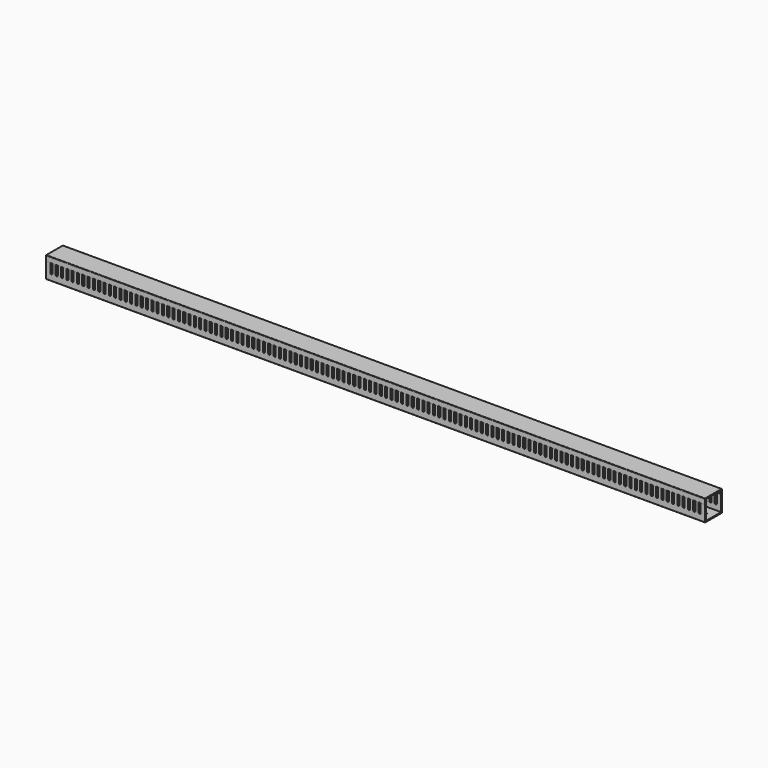
from build123d import *

# Parameters (mm, degrees)
F1_DEPTH = 620
F3_DEPTH = 40.001
F5_DEPTH = 25
F7_DEPTH = 620
F8_R     = 1
F8_2_R   = 1


with BuildPart() as f1:
    # F0 (on Right) → F1 (new body, symmetric)
    with BuildSketch(Plane.YZ):
        Polygon((-20, 38), (-20, 0), (20, 0), (20, 38), (18, 38), (18, 2), (-18, 2), (-18, 38), align=None)
    extrude(amount=F1_DEPTH, both=True)

    # F2 (on face) → F3 (cut, through all)
    with BuildSketch(Plane.XZ.offset(20)):
        with BuildLine():
            Line((2, 38), (-2, 38))
            Line((-2, 38), (-2, 13.4))
            ThreePointArc((-2, 13.4), (0, 11.4), (2, 13.4))
            Line((2, 13.4), (2, 38))
        make_face()
        with BuildLine():
            Line((12, 38), (8, 38))
            Line((8, 38), (8, 13.4))
            ThreePointArc((8, 13.4), (10, 11.4), (12, 13.4))
            Line((12, 13.4), (12, 38))
        make_face()
        with BuildLine():
            Line((22, 38), (18, 38))
            Line((18, 38), (18, 13.4))
            ThreePointArc((18, 13.4), (20, 11.4), (22, 13.4))
            Line((22, 13.4), (22, 38))
        make_face()
        with BuildLine():
            Line((32, 38), (28, 38))
            Line((28, 38), (28, 13.4))
            ThreePointArc((28, 13.4), (30, 11.4), (32, 13.4))
            Line((32, 13.4), (32, 38))
        make_face()
        with BuildLine():
            Line((42, 38), (38, 38))
            Line((38, 38), (38, 13.4))
            ThreePointArc((38, 13.4), (40, 11.4), (42, 13.4))
            Line((42, 13.4), (42, 38))
        make_face()
        with BuildLine():
            Line((52, 38), (48, 38))
            Line((48, 38), (48, 13.4))
            ThreePointArc((48, 13.4), (50, 11.4), (52, 13.4))
            Line((52, 13.4), (52, 38))
        make_face()
        with BuildLine():
            Line((62, 38), (58, 38))
            Line((58, 38), (58, 13.4))
            ThreePointArc((58, 13.4), (60, 11.4), (62, 13.4))
            Line((62, 13.4), (62, 38))
        make_face()
        with BuildLine():
            Line((72, 38), (68, 38))
            Line((68, 38), (68, 13.4))
            ThreePointArc((68, 13.4), (70, 11.4), (72, 13.4))
            Line((72, 13.4), (72, 38))
        make_face()
        with BuildLine():
            Line((82, 38), (78, 38))
            Line((78, 38), (78, 13.4))
            ThreePointArc((78, 13.4), (80, 11.4), (82, 13.4))
            Line((82, 13.4), (82, 38))
        make_face()
        with BuildLine():
            Line((92, 38), (88, 38))
            Line((88, 38), (88, 13.4))
            ThreePointArc((88, 13.4), (90, 11.4), (92, 13.4))
            Line((92, 13.4), (92, 38))
        make_face()
        with BuildLine():
            Line((102, 38), (98, 38))
            Line((98, 38), (98, 13.4))
            ThreePointArc((98, 13.4), (100, 11.4), (102, 13.4))
            Line((102, 13.4), (102, 38))
        make_face()
        with BuildLine():
            Line((112, 38), (108, 38))
            Line((108, 38), (108, 13.4))
            ThreePointArc((108, 13.4), (110, 11.4), (112, 13.4))
            Line((112, 13.4), (112, 38))
        make_face()
        with BuildLine():
            Line((122, 38), (118, 38))
            Line((118, 38), (118, 13.4))
            ThreePointArc((118, 13.4), (120, 11.4), (122, 13.4))
            Line((122, 13.4), (122, 38))
        make_face()
        with BuildLine():
            Line((132, 38), (128, 38))
            Line((128, 38), (128, 13.4))
            ThreePointArc((128, 13.4), (130, 11.4), (132, 13.4))
            Line((132, 13.4), (132, 38))
        make_face()
        with BuildLine():
            Line((142, 38), (138, 38))
            Line((138, 38), (138, 13.4))
            ThreePointArc((138, 13.4), (140, 11.4), (142, 13.4))
            Line((142, 13.4), (142, 38))
        make_face()
        with BuildLine():
            Line((152, 38), (148, 38))
            Line((148, 38), (148, 13.4))
            ThreePointArc((148, 13.4), (150, 11.4), (152, 13.4))
            Line((152, 13.4), (152, 38))
        make_face()
        with BuildLine():
            Line((162, 38), (158, 38))
            Line((158, 38), (158, 13.4))
            ThreePointArc((158, 13.4), (160, 11.4), (162, 13.4))
            Line((162, 13.4), (162, 38))
        make_face()
        with BuildLine():
            Line((172, 38), (168, 38))
            Line((168, 38), (168, 13.4))
            ThreePointArc((168, 13.4), (170, 11.4), (172, 13.4))
            Line((172, 13.4), (172, 38))
        make_face()
        with BuildLine():
            Line((182, 38), (178, 38))
            Line((178, 38), (178, 13.4))
            ThreePointArc((178, 13.4), (180, 11.4), (182, 13.4))
            Line((182, 13.4), (182, 38))
        make_face()
        with BuildLine():
            Line((192, 38), (188, 38))
            Line((188, 38), (188, 13.4))
            ThreePointArc((188, 13.4), (190, 11.4), (192, 13.4))
            Line((192, 13.4), (192, 38))
        make_face()
        with BuildLine():
            Line((202, 38), (198, 38))
            Line((198, 38), (198, 13.4))
            ThreePointArc((198, 13.4), (200, 11.4), (202, 13.4))
            Line((202, 13.4), (202, 38))
        make_face()
        with BuildLine():
            Line((212, 38), (208, 38))
            Line((208, 38), (208, 13.4))
            ThreePointArc((208, 13.4), (210, 11.4), (212, 13.4))
            Line((212, 13.4), (212, 38))
        make_face()
        with BuildLine():
            Line((222, 38), (218, 38))
            Line((218, 38), (218, 13.4))
            ThreePointArc((218, 13.4), (220, 11.4), (222, 13.4))
            Line((222, 13.4), (222, 38))
        make_face()
        with BuildLine():
            Line((232, 38), (228, 38))
            Line((228, 38), (228, 13.4))
            ThreePointArc((228, 13.4), (230, 11.4), (232, 13.4))
            Line((232, 13.4), (232, 38))
        make_face()
        with BuildLine():
            Line((242, 38), (238, 38))
            Line((238, 38), (238, 13.4))
            ThreePointArc((238, 13.4), (240, 11.4), (242, 13.4))
            Line((242, 13.4), (242, 38))
        make_face()
        with BuildLine():
            Line((252, 38), (248, 38))
            Line((248, 38), (248, 13.4))
            ThreePointArc((248, 13.4), (250, 11.4), (252, 13.4))
            Line((252, 13.4), (252, 38))
        make_face()
        with BuildLine():
            Line((262, 38), (258, 38))
            Line((258, 38), (258, 13.4))
            ThreePointArc((258, 13.4), (260, 11.4), (262, 13.4))
            Line((262, 13.4), (262, 38))
        make_face()
        with BuildLine():
            Line((272, 38), (268, 38))
            Line((268, 38), (268, 13.4))
            ThreePointArc((268, 13.4), (270, 11.4), (272, 13.4))
            Line((272, 13.4), (272, 38))
        make_face()
        with BuildLine():
            Line((282, 38), (278, 38))
            Line((278, 38), (278, 13.4))
            ThreePointArc((278, 13.4), (280, 11.4), (282, 13.4))
            Line((282, 13.4), (282, 38))
        make_face()
        with BuildLine():
            Line((292, 38), (288, 38))
            Line((288, 38), (288, 13.4))
            ThreePointArc((288, 13.4), (290, 11.4), (292, 13.4))
            Line((292, 13.4), (292, 38))
        make_face()
        with BuildLine():
            Line((302, 38), (298, 38))
            Line((298, 38), (298, 13.4))
            ThreePointArc((298, 13.4), (300, 11.4), (302, 13.4))
            Line((302, 13.4), (302, 38))
        make_face()
        with BuildLine():
            Line((312, 38), (308, 38))
            Line((308, 38), (308, 13.4))
            ThreePointArc((308, 13.4), (310, 11.4), (312, 13.4))
            Line((312, 13.4), (312, 38))
        make_face()
        with BuildLine():
            Line((322, 38), (318, 38))
            Line((318, 38), (318, 13.4))
            ThreePointArc((318, 13.4), (320, 11.4), (322, 13.4))
            Line((322, 13.4), (322, 38))
        make_face()
        with BuildLine():
            Line((332, 38), (328, 38))
            Line((328, 38), (328, 13.4))
            ThreePointArc((328, 13.4), (330, 11.4), (332, 13.4))
            Line((332, 13.4), (332, 38))
        make_face()
        with BuildLine():
            Line((342, 38), (338, 38))
            Line((338, 38), (338, 13.4))
            ThreePointArc((338, 13.4), (340, 11.4), (342, 13.4))
            Line((342, 13.4), (342, 38))
        make_face()
        with BuildLine():
            Line((352, 38), (348, 38))
            Line((348, 38), (348, 13.4))
            ThreePointArc((348, 13.4), (350, 11.4), (352, 13.4))
            Line((352, 13.4), (352, 38))
        make_face()
        with BuildLine():
            Line((362, 38), (358, 38))
            Line((358, 38), (358, 13.4))
            ThreePointArc((358, 13.4), (360, 11.4), (362, 13.4))
            Line((362, 13.4), (362, 38))
        make_face()
        with BuildLine():
            Line((372, 38), (368, 38))
            Line((368, 38), (368, 13.4))
            ThreePointArc((368, 13.4), (370, 11.4), (372, 13.4))
            Line((372, 13.4), (372, 38))
        make_face()
        with BuildLine():
            Line((382, 38), (378, 38))
            Line((378, 38), (378, 13.4))
            ThreePointArc((378, 13.4), (380, 11.4), (382, 13.4))
            Line((382, 13.4), (382, 38))
        make_face()
        with BuildLine():
            Line((392, 38), (388, 38))
            Line((388, 38), (388, 13.4))
            ThreePointArc((388, 13.4), (390, 11.4), (392, 13.4))
            Line((392, 13.4), (392, 38))
        make_face()
        with BuildLine():
            Line((402, 38), (398, 38))
            Line((398, 38), (398, 13.4))
            ThreePointArc((398, 13.4), (400, 11.4), (402, 13.4))
            Line((402, 13.4), (402, 38))
        make_face()
        with BuildLine():
            Line((412, 38), (408, 38))
            Line((408, 38), (408, 13.4))
            ThreePointArc((408, 13.4), (410, 11.4), (412, 13.4))
            Line((412, 13.4), (412, 38))
        make_face()
        with BuildLine():
            Line((422, 38), (418, 38))
            Line((418, 38), (418, 13.4))
            ThreePointArc((418, 13.4), (420, 11.4), (422, 13.4))
            Line((422, 13.4), (422, 38))
        make_face()
        with BuildLine():
            Line((432, 38), (428, 38))
            Line((428, 38), (428, 13.4))
            ThreePointArc((428, 13.4), (430, 11.4), (432, 13.4))
            Line((432, 13.4), (432, 38))
        make_face()
        with BuildLine():
            Line((442, 38), (438, 38))
            Line((438, 38), (438, 13.4))
            ThreePointArc((438, 13.4), (440, 11.4), (442, 13.4))
            Line((442, 13.4), (442, 38))
        make_face()
        with BuildLine():
            Line((452, 38), (448, 38))
            Line((448, 38), (448, 13.4))
            ThreePointArc((448, 13.4), (450, 11.4), (452, 13.4))
            Line((452, 13.4), (452, 38))
        make_face()
        with BuildLine():
            Line((462, 38), (458, 38))
            Line((458, 38), (458, 13.4))
            ThreePointArc((458, 13.4), (460, 11.4), (462, 13.4))
            Line((462, 13.4), (462, 38))
        make_face()
        with BuildLine():
            Line((472, 38), (468, 38))
            Line((468, 38), (468, 13.4))
            ThreePointArc((468, 13.4), (470, 11.4), (472, 13.4))
            Line((472, 13.4), (472, 38))
        make_face()
        with BuildLine():
            Line((482, 38), (478, 38))
            Line((478, 38), (478, 13.4))
            ThreePointArc((478, 13.4), (480, 11.4), (482, 13.4))
            Line((482, 13.4), (482, 38))
        make_face()
        with BuildLine():
            Line((492, 38), (488, 38))
            Line((488, 38), (488, 13.4))
            ThreePointArc((488, 13.4), (490, 11.4), (492, 13.4))
            Line((492, 13.4), (492, 38))
        make_face()
        with BuildLine():
            Line((-8, 38), (-12, 38))
            Line((-12, 38), (-12, 13.4))
            ThreePointArc((-12, 13.4), (-10, 11.4), (-8, 13.4))
            Line((-8, 13.4), (-8, 38))
        make_face()
        with BuildLine():
            Line((-18, 38), (-22, 38))
            Line((-22, 38), (-22, 13.4))
            ThreePointArc((-22, 13.4), (-20, 11.4), (-18, 13.4))
            Line((-18, 13.4), (-18, 38))
        make_face()
        with BuildLine():
            Line((-28, 38), (-32, 38))
            Line((-32, 38), (-32, 13.4))
            ThreePointArc((-32, 13.4), (-30, 11.4), (-28, 13.4))
            Line((-28, 13.4), (-28, 38))
        make_face()
        with BuildLine():
            Line((-38, 38), (-42, 38))
            Line((-42, 38), (-42, 13.4))
            ThreePointArc((-42, 13.4), (-40, 11.4), (-38, 13.4))
            Line((-38, 13.4), (-38, 38))
        make_face()
        with BuildLine():
            Line((-48, 38), (-52, 38))
            Line((-52, 38), (-52, 13.4))
            ThreePointArc((-52, 13.4), (-50, 11.4), (-48, 13.4))
            Line((-48, 13.4), (-48, 38))
        make_face()
        with BuildLine():
            Line((-58, 38), (-62, 38))
            Line((-62, 38), (-62, 13.4))
            ThreePointArc((-62, 13.4), (-60, 11.4), (-58, 13.4))
            Line((-58, 13.4), (-58, 38))
        make_face()
        with BuildLine():
            Line((-68, 38), (-72, 38))
            Line((-72, 38), (-72, 13.4))
            ThreePointArc((-72, 13.4), (-70, 11.4), (-68, 13.4))
            Line((-68, 13.4), (-68, 38))
        make_face()
        with BuildLine():
            Line((-78, 38), (-82, 38))
            Line((-82, 38), (-82, 13.4))
            ThreePointArc((-82, 13.4), (-80, 11.4), (-78, 13.4))
            Line((-78, 13.4), (-78, 38))
        make_face()
        with BuildLine():
            Line((-88, 38), (-92, 38))
            Line((-92, 38), (-92, 13.4))
            ThreePointArc((-92, 13.4), (-90, 11.4), (-88, 13.4))
            Line((-88, 13.4), (-88, 38))
        make_face()
        with BuildLine():
            Line((-98, 38), (-102, 38))
            Line((-102, 38), (-102, 13.4))
            ThreePointArc((-102, 13.4), (-100, 11.4), (-98, 13.4))
            Line((-98, 13.4), (-98, 38))
        make_face()
        with BuildLine():
            Line((-108, 38), (-112, 38))
            Line((-112, 38), (-112, 13.4))
            ThreePointArc((-112, 13.4), (-110, 11.4), (-108, 13.4))
            Line((-108, 13.4), (-108, 38))
        make_face()
        with BuildLine():
            Line((-118, 38), (-122, 38))
            Line((-122, 38), (-122, 13.4))
            ThreePointArc((-122, 13.4), (-120, 11.4), (-118, 13.4))
            Line((-118, 13.4), (-118, 38))
        make_face()
        with BuildLine():
            Line((-128, 38), (-132, 38))
            Line((-132, 38), (-132, 13.4))
            ThreePointArc((-132, 13.4), (-130, 11.4), (-128, 13.4))
            Line((-128, 13.4), (-128, 38))
        make_face()
        with BuildLine():
            Line((-138, 38), (-142, 38))
            Line((-142, 38), (-142, 13.4))
            ThreePointArc((-142, 13.4), (-140, 11.4), (-138, 13.4))
            Line((-138, 13.4), (-138, 38))
        make_face()
        with BuildLine():
            Line((-148, 38), (-152, 38))
            Line((-152, 38), (-152, 13.4))
            ThreePointArc((-152, 13.4), (-150, 11.4), (-148, 13.4))
            Line((-148, 13.4), (-148, 38))
        make_face()
        with BuildLine():
            Line((-158, 38), (-162, 38))
            Line((-162, 38), (-162, 13.4))
            ThreePointArc((-162, 13.4), (-160, 11.4), (-158, 13.4))
            Line((-158, 13.4), (-158, 38))
        make_face()
        with BuildLine():
            Line((-168, 38), (-172, 38))
            Line((-172, 38), (-172, 13.4))
            ThreePointArc((-172, 13.4), (-170, 11.4), (-168, 13.4))
            Line((-168, 13.4), (-168, 38))
        make_face()
        with BuildLine():
            Line((-178, 38), (-182, 38))
            Line((-182, 38), (-182, 13.4))
            ThreePointArc((-182, 13.4), (-180, 11.4), (-178, 13.4))
            Line((-178, 13.4), (-178, 38))
        make_face()
        with BuildLine():
            Line((-188, 38), (-192, 38))
            Line((-192, 38), (-192, 13.4))
            ThreePointArc((-192, 13.4), (-190, 11.4), (-188, 13.4))
            Line((-188, 13.4), (-188, 38))
        make_face()
        with BuildLine():
            Line((-198, 38), (-202, 38))
            Line((-202, 38), (-202, 13.4))
            ThreePointArc((-202, 13.4), (-200, 11.4), (-198, 13.4))
            Line((-198, 13.4), (-198, 38))
        make_face()
        with BuildLine():
            Line((-208, 38), (-212, 38))
            Line((-212, 38), (-212, 13.4))
            ThreePointArc((-212, 13.4), (-210, 11.4), (-208, 13.4))
            Line((-208, 13.4), (-208, 38))
        make_face()
        with BuildLine():
            Line((-218, 38), (-222, 38))
            Line((-222, 38), (-222, 13.4))
            ThreePointArc((-222, 13.4), (-220, 11.4), (-218, 13.4))
            Line((-218, 13.4), (-218, 38))
        make_face()
        with BuildLine():
            Line((-228, 38), (-232, 38))
            Line((-232, 38), (-232, 13.4))
            ThreePointArc((-232, 13.4), (-230, 11.4), (-228, 13.4))
            Line((-228, 13.4), (-228, 38))
        make_face()
        with BuildLine():
            Line((-238, 38), (-242, 38))
            Line((-242, 38), (-242, 13.4))
            ThreePointArc((-242, 13.4), (-240, 11.4), (-238, 13.4))
            Line((-238, 13.4), (-238, 38))
        make_face()
        with BuildLine():
            Line((-248, 38), (-252, 38))
            Line((-252, 38), (-252, 13.4))
            ThreePointArc((-252, 13.4), (-250, 11.4), (-248, 13.4))
            Line((-248, 13.4), (-248, 38))
        make_face()
        with BuildLine():
            Line((-258, 38), (-262, 38))
            Line((-262, 38), (-262, 13.4))
            ThreePointArc((-262, 13.4), (-260, 11.4), (-258, 13.4))
            Line((-258, 13.4), (-258, 38))
        make_face()
        with BuildLine():
            Line((-268, 38), (-272, 38))
            Line((-272, 38), (-272, 13.4))
            ThreePointArc((-272, 13.4), (-270, 11.4), (-268, 13.4))
            Line((-268, 13.4), (-268, 38))
        make_face()
        with BuildLine():
            Line((-278, 38), (-282, 38))
            Line((-282, 38), (-282, 13.4))
            ThreePointArc((-282, 13.4), (-280, 11.4), (-278, 13.4))
            Line((-278, 13.4), (-278, 38))
        make_face()
        with BuildLine():
            Line((-288, 38), (-292, 38))
            Line((-292, 38), (-292, 13.4))
            ThreePointArc((-292, 13.4), (-290, 11.4), (-288, 13.4))
            Line((-288, 13.4), (-288, 38))
        make_face()
        with BuildLine():
            Line((-298, 38), (-302, 38))
            Line((-302, 38), (-302, 13.4))
            ThreePointArc((-302, 13.4), (-300, 11.4), (-298, 13.4))
            Line((-298, 13.4), (-298, 38))
        make_face()
        with BuildLine():
            Line((-308, 38), (-312, 38))
            Line((-312, 38), (-312, 13.4))
            ThreePointArc((-312, 13.4), (-310, 11.4), (-308, 13.4))
            Line((-308, 13.4), (-308, 38))
        make_face()
        with BuildLine():
            Line((-318, 38), (-322, 38))
            Line((-322, 38), (-322, 13.4))
            ThreePointArc((-322, 13.4), (-320, 11.4), (-318, 13.4))
            Line((-318, 13.4), (-318, 38))
        make_face()
        with BuildLine():
            Line((-328, 38), (-332, 38))
            Line((-332, 38), (-332, 13.4))
            ThreePointArc((-332, 13.4), (-330, 11.4), (-328, 13.4))
            Line((-328, 13.4), (-328, 38))
        make_face()
        with BuildLine():
            Line((-338, 38), (-342, 38))
            Line((-342, 38), (-342, 13.4))
            ThreePointArc((-342, 13.4), (-340, 11.4), (-338, 13.4))
            Line((-338, 13.4), (-338, 38))
        make_face()
        with BuildLine():
            Line((-348, 38), (-352, 38))
            Line((-352, 38), (-352, 13.4))
            ThreePointArc((-352, 13.4), (-350, 11.4), (-348, 13.4))
            Line((-348, 13.4), (-348, 38))
        make_face()
        with BuildLine():
            Line((-358, 38), (-362, 38))
            Line((-362, 38), (-362, 13.4))
            ThreePointArc((-362, 13.4), (-360, 11.4), (-358, 13.4))
            Line((-358, 13.4), (-358, 38))
        make_face()
        with BuildLine():
            Line((-368, 38), (-372, 38))
            Line((-372, 38), (-372, 13.4))
            ThreePointArc((-372, 13.4), (-370, 11.4), (-368, 13.4))
            Line((-368, 13.4), (-368, 38))
        make_face()
        with BuildLine():
            Line((-378, 38), (-382, 38))
            Line((-382, 38), (-382, 13.4))
            ThreePointArc((-382, 13.4), (-380, 11.4), (-378, 13.4))
            Line((-378, 13.4), (-378, 38))
        make_face()
        with BuildLine():
            Line((-388, 38), (-392, 38))
            Line((-392, 38), (-392, 13.4))
            ThreePointArc((-392, 13.4), (-390, 11.4), (-388, 13.4))
            Line((-388, 13.4), (-388, 38))
        make_face()
        with BuildLine():
            Line((-398, 38), (-402, 38))
            Line((-402, 38), (-402, 13.4))
            ThreePointArc((-402, 13.4), (-400, 11.4), (-398, 13.4))
            Line((-398, 13.4), (-398, 38))
        make_face()
        with BuildLine():
            Line((-408, 38), (-412, 38))
            Line((-412, 38), (-412, 13.4))
            ThreePointArc((-412, 13.4), (-410, 11.4), (-408, 13.4))
            Line((-408, 13.4), (-408, 38))
        make_face()
        with BuildLine():
            Line((-418, 38), (-422, 38))
            Line((-422, 38), (-422, 13.4))
            ThreePointArc((-422, 13.4), (-420, 11.4), (-418, 13.4))
            Line((-418, 13.4), (-418, 38))
        make_face()
        with BuildLine():
            Line((-428, 38), (-432, 38))
            Line((-432, 38), (-432, 13.4))
            ThreePointArc((-432, 13.4), (-430, 11.4), (-428, 13.4))
            Line((-428, 13.4), (-428, 38))
        make_face()
        with BuildLine():
            Line((-438, 38), (-442, 38))
            Line((-442, 38), (-442, 13.4))
            ThreePointArc((-442, 13.4), (-440, 11.4), (-438, 13.4))
            Line((-438, 13.4), (-438, 38))
        make_face()
        with BuildLine():
            Line((-448, 38), (-452, 38))
            Line((-452, 38), (-452, 13.4))
            ThreePointArc((-452, 13.4), (-450, 11.4), (-448, 13.4))
            Line((-448, 13.4), (-448, 38))
        make_face()
        with BuildLine():
            Line((-458, 38), (-462, 38))
            Line((-462, 38), (-462, 13.4))
            ThreePointArc((-462, 13.4), (-460, 11.4), (-458, 13.4))
            Line((-458, 13.4), (-458, 38))
        make_face()
        with BuildLine():
            Line((-468, 38), (-472, 38))
            Line((-472, 38), (-472, 13.4))
            ThreePointArc((-472, 13.4), (-470, 11.4), (-468, 13.4))
            Line((-468, 13.4), (-468, 38))
        make_face()
        with BuildLine():
            Line((-478, 38), (-482, 38))
            Line((-482, 38), (-482, 13.4))
            ThreePointArc((-482, 13.4), (-480, 11.4), (-478, 13.4))
            Line((-478, 13.4), (-478, 38))
        make_face()
        with BuildLine():
            Line((-488, 38), (-492, 38))
            Line((-492, 38), (-492, 13.4))
            ThreePointArc((-492, 13.4), (-490, 11.4), (-488, 13.4))
            Line((-488, 13.4), (-488, 38))
        make_face()
        with BuildLine():
            Line((502, 38), (498, 38))
            Line((498, 38), (498, 13.4))
            ThreePointArc((498, 13.4), (500, 11.4), (502, 13.4))
            Line((502, 13.4), (502, 38))
        make_face()
        with BuildLine():
            Line((512, 38), (508, 38))
            Line((508, 38), (508, 13.4))
            ThreePointArc((508, 13.4), (510, 11.4), (512, 13.4))
            Line((512, 13.4), (512, 38))
        make_face()
        with BuildLine():
            Line((522, 38), (518, 38))
            Line((518, 38), (518, 13.4))
            ThreePointArc((518, 13.4), (520, 11.4), (522, 13.4))
            Line((522, 13.4), (522, 38))
        make_face()
        with BuildLine():
            Line((532, 38), (528, 38))
            Line((528, 38), (528, 13.4))
            ThreePointArc((528, 13.4), (530, 11.4), (532, 13.4))
            Line((532, 13.4), (532, 38))
        make_face()
        with BuildLine():
            Line((542, 38), (538, 38))
            Line((538, 38), (538, 13.4))
            ThreePointArc((538, 13.4), (540, 11.4), (542, 13.4))
            Line((542, 13.4), (542, 38))
        make_face()
        with BuildLine():
            Line((552, 38), (548, 38))
            Line((548, 38), (548, 13.4))
            ThreePointArc((548, 13.4), (550, 11.4), (552, 13.4))
            Line((552, 13.4), (552, 38))
        make_face()
        with BuildLine():
            Line((562, 38), (558, 38))
            Line((558, 38), (558, 13.4))
            ThreePointArc((558, 13.4), (560, 11.4), (562, 13.4))
            Line((562, 13.4), (562, 38))
        make_face()
        with BuildLine():
            Line((572, 38), (568, 38))
            Line((568, 38), (568, 13.4))
            ThreePointArc((568, 13.4), (570, 11.4), (572, 13.4))
            Line((572, 13.4), (572, 38))
        make_face()
        with BuildLine():
            Line((582, 38), (578, 38))
            Line((578, 38), (578, 13.4))
            ThreePointArc((578, 13.4), (580, 11.4), (582, 13.4))
            Line((582, 13.4), (582, 38))
        make_face()
        with BuildLine():
            Line((592, 38), (588, 38))
            Line((588, 38), (588, 13.4))
            ThreePointArc((588, 13.4), (590, 11.4), (592, 13.4))
            Line((592, 13.4), (592, 38))
        make_face()
        with BuildLine():
            Line((602, 38), (598, 38))
            Line((598, 38), (598, 13.4))
            ThreePointArc((598, 13.4), (600, 11.4), (602, 13.4))
            Line((602, 13.4), (602, 38))
        make_face()
        with BuildLine():
            Line((612, 38), (608, 38))
            Line((608, 38), (608, 13.4))
            ThreePointArc((608, 13.4), (610, 11.4), (612, 13.4))
            Line((612, 13.4), (612, 38))
        make_face()
        with BuildLine():
            Line((-498, 38), (-502, 38))
            Line((-502, 38), (-502, 13.4))
            ThreePointArc((-502, 13.4), (-500, 11.4), (-498, 13.4))
            Line((-498, 13.4), (-498, 38))
        make_face()
        with BuildLine():
            Line((-508, 38), (-512, 38))
            Line((-512, 38), (-512, 13.4))
            ThreePointArc((-512, 13.4), (-510, 11.4), (-508, 13.4))
            Line((-508, 13.4), (-508, 38))
        make_face()
        with BuildLine():
            Line((-518, 38), (-522, 38))
            Line((-522, 38), (-522, 13.4))
            ThreePointArc((-522, 13.4), (-520, 11.4), (-518, 13.4))
            Line((-518, 13.4), (-518, 38))
        make_face()
        with BuildLine():
            Line((-528, 38), (-532, 38))
            Line((-532, 38), (-532, 13.4))
            ThreePointArc((-532, 13.4), (-530, 11.4), (-528, 13.4))
            Line((-528, 13.4), (-528, 38))
        make_face()
        with BuildLine():
            Line((-538, 38), (-542, 38))
            Line((-542, 38), (-542, 13.4))
            ThreePointArc((-542, 13.4), (-540, 11.4), (-538, 13.4))
            Line((-538, 13.4), (-538, 38))
        make_face()
        with BuildLine():
            Line((-548, 38), (-552, 38))
            Line((-552, 38), (-552, 13.4))
            ThreePointArc((-552, 13.4), (-550, 11.4), (-548, 13.4))
            Line((-548, 13.4), (-548, 38))
        make_face()
        with BuildLine():
            Line((-558, 38), (-562, 38))
            Line((-562, 38), (-562, 13.4))
            ThreePointArc((-562, 13.4), (-560, 11.4), (-558, 13.4))
            Line((-558, 13.4), (-558, 38))
        make_face()
        with BuildLine():
            Line((-568, 38), (-572, 38))
            Line((-572, 38), (-572, 13.4))
            ThreePointArc((-572, 13.4), (-570, 11.4), (-568, 13.4))
            Line((-568, 13.4), (-568, 38))
        make_face()
        with BuildLine():
            Line((-578, 38), (-582, 38))
            Line((-582, 38), (-582, 13.4))
            ThreePointArc((-582, 13.4), (-580, 11.4), (-578, 13.4))
            Line((-578, 13.4), (-578, 38))
        make_face()
        with BuildLine():
            Line((-588, 38), (-592, 38))
            Line((-592, 38), (-592, 13.4))
            ThreePointArc((-592, 13.4), (-590, 11.4), (-588, 13.4))
            Line((-588, 13.4), (-588, 38))
        make_face()
        with BuildLine():
            Line((-598, 38), (-602, 38))
            Line((-602, 38), (-602, 13.4))
            ThreePointArc((-602, 13.4), (-600, 11.4), (-598, 13.4))
            Line((-598, 13.4), (-598, 38))
        make_face()
        with BuildLine():
            Line((-608, 38), (-612, 38))
            Line((-612, 38), (-612, 13.4))
            ThreePointArc((-612, 13.4), (-610, 11.4), (-608, 13.4))
            Line((-608, 13.4), (-608, 38))
        make_face()
    extrude(amount=-F3_DEPTH, mode=Mode.SUBTRACT)

    # F4 (on face) → F5 (cut)
    with BuildSketch(Plane.XY.offset(2)):
        with BuildLine():
            ThreePointArc((4.5, -3), (7.5, 0), (4.5, 3))
            Line((4.5, 3), (-4.5, 3))
            ThreePointArc((-4.5, 3), (-7.5, 0), (-4.5, -3))
            Line((-4.5, -3), (4.5, -3))
        make_face()
        with BuildLine():
            Line((95.5, -3), (104.5, -3))
            ThreePointArc((104.5, -3), (107.5, 0), (104.5, 3))
            Line((104.5, 3), (95.5, 3))
            ThreePointArc((95.5, 3), (92.5, 0), (95.5, -3))
        make_face()
        with BuildLine():
            Line((195.5, -3), (204.5, -3))
            ThreePointArc((204.5, -3), (207.5, 0), (204.5, 3))
            Line((204.5, 3), (195.5, 3))
            ThreePointArc((195.5, 3), (192.5, 0), (195.5, -3))
        make_face()
        with BuildLine():
            Line((295.5, -3), (304.5, -3))
            ThreePointArc((304.5, -3), (307.5, 0), (304.5, 3))
            Line((304.5, 3), (295.5, 3))
            ThreePointArc((295.5, 3), (292.5, 0), (295.5, -3))
        make_face()
        with BuildLine():
            Line((395.5, -3), (404.5, -3))
            ThreePointArc((404.5, -3), (407.5, 0), (404.5, 3))
            Line((404.5, 3), (395.5, 3))
            ThreePointArc((395.5, 3), (392.5, 0), (395.5, -3))
        make_face()
        with BuildLine():
            Line((495.5, -3), (504.5, -3))
            ThreePointArc((504.5, -3), (507.5, 0), (504.5, 3))
            Line((504.5, 3), (495.5, 3))
            ThreePointArc((495.5, 3), (492.5, 0), (495.5, -3))
        make_face()
        with BuildLine():
            ThreePointArc((-95.5, -3), (-92.5, 0), (-95.5, 3))
            Line((-95.5, 3), (-104.5, 3))
            ThreePointArc((-104.5, 3), (-107.5, 0), (-104.5, -3))
            Line((-104.5, -3), (-95.5, -3))
        make_face()
        with BuildLine():
            ThreePointArc((-195.5, -3), (-192.5, 0), (-195.5, 3))
            Line((-195.5, 3), (-204.5, 3))
            ThreePointArc((-204.5, 3), (-207.5, 0), (-204.5, -3))
            Line((-204.5, -3), (-195.5, -3))
        make_face()
        with BuildLine():
            ThreePointArc((-295.5, -3), (-292.5, 0), (-295.5, 3))
            Line((-295.5, 3), (-304.5, 3))
            ThreePointArc((-304.5, 3), (-307.5, 0), (-304.5, -3))
            Line((-304.5, -3), (-295.5, -3))
        make_face()
        with BuildLine():
            ThreePointArc((-395.5, -3), (-392.5, 0), (-395.5, 3))
            Line((-395.5, 3), (-404.5, 3))
            ThreePointArc((-404.5, 3), (-407.5, 0), (-404.5, -3))
            Line((-404.5, -3), (-395.5, -3))
        make_face()
        with BuildLine():
            ThreePointArc((-495.5, -3), (-492.5, 0), (-495.5, 3))
            Line((-495.5, 3), (-504.5, 3))
            ThreePointArc((-504.5, 3), (-507.5, 0), (-504.5, -3))
            Line((-504.5, -3), (-495.5, -3))
        make_face()
        with BuildLine():
            Line((595.5, -3), (604.5, -3))
            ThreePointArc((604.5, -3), (607.5, 0), (604.5, 3))
            Line((604.5, 3), (595.5, 3))
            ThreePointArc((595.5, 3), (592.5, 0), (595.5, -3))
        make_face()
        with BuildLine():
            ThreePointArc((-595.5, -3), (-592.5, 0), (-595.5, 3))
            Line((-595.5, 3), (-604.5, 3))
            ThreePointArc((-604.5, 3), (-607.5, 0), (-604.5, -3))
            Line((-604.5, -3), (-595.5, -3))
        make_face()
    extrude(amount=-F5_DEPTH, mode=Mode.SUBTRACT)

    # F8#2
    f8_2_edges = [f1.edges().sort_by_distance(p)[0] for p in [
        (0, 20, 0),
        (0, -20, 0),
    ]]
    fillet(f8_2_edges, radius=F8_2_R)


with BuildPart() as f7:
    # F6 (on Right) → F7 (new body, symmetric)
    with BuildSketch(Plane.YZ):
        Polygon((20, 30), (20, 40), (-20, 40), (-20, 30), (-16, 34), (-18, 34), (-18, 38), (18, 38), (18, 34), (16, 34), align=None)
    extrude(amount=F7_DEPTH, both=True)

    # F8
    f8_edges = [f7.edges().sort_by_distance(p)[0] for p in [
        (0, 20, 40),
        (0, -20, 40),
    ]]
    fillet(f8_edges, radius=F8_R)


solid = Compound([f1.part, f7.part])
